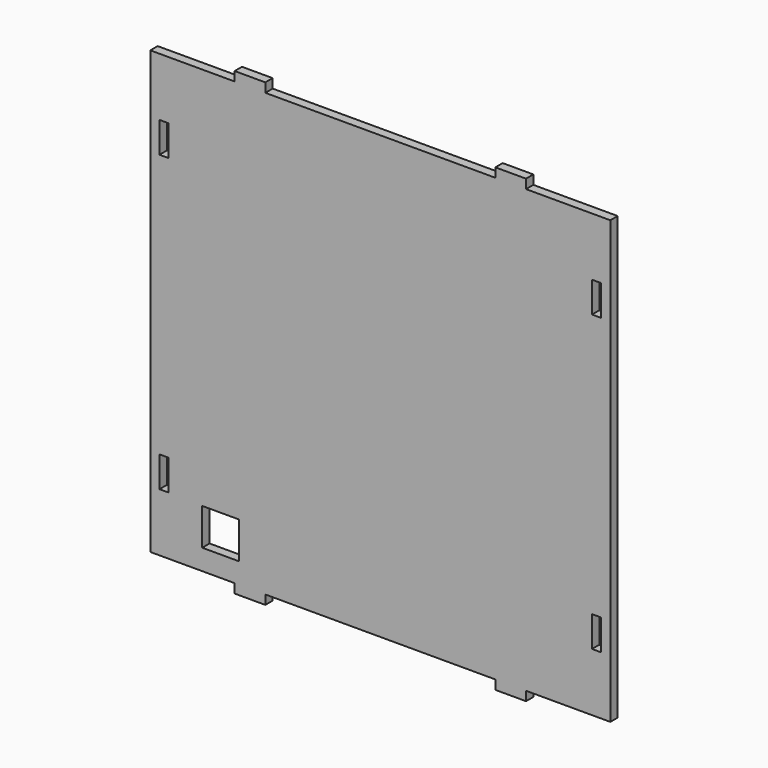
from build123d import *

# Parameters (mm, degrees)
F0_W     = 12
F0_H     = 12
F0_W_2   = 2.98
F0_H_2   = 10
F1_DEPTH = 3


with BuildPart() as f1:
    # F0 (on Front) → F1 (new body)
    with BuildSketch(Plane.XZ):
        Polygon((-47.500234, 72), (-75.000234, 72), (-74.999766, -72), (-47.499766, -72), (-47.499766, -75), (-37.499766, -75), (-37.499766, -72), (37.500234, -72), (37.500234, -75), (47.500234, -75), (47.500234, -72), (75.000234, -72), (74.999766, 72), (47.5, 72), (47.5, 75), (37.5, 75), (37.5, 72.005854), (-37.5, 72), (-37.500234, 75), (-47.500234, 75), align=None)
        with Locations((-52.06838, -59.269677)):
            Rectangle(F0_W, F0_H, mode=Mode.SUBTRACT)
        with Locations((-70.510156, -48)):
            Rectangle(F0_W_2, F0_H_2, mode=Mode.SUBTRACT)
        with Locations((70.510156, -48)):
            Rectangle(F0_W_2, F0_H_2, mode=Mode.SUBTRACT)
        with Locations((-70.510156, 48)):
            Rectangle(F0_W_2, F0_H_2, mode=Mode.SUBTRACT)
        with Locations((70.510156, 48)):
            Rectangle(F0_W_2, F0_H_2, mode=Mode.SUBTRACT)
    extrude(amount=F1_DEPTH)


solid = f1.part
